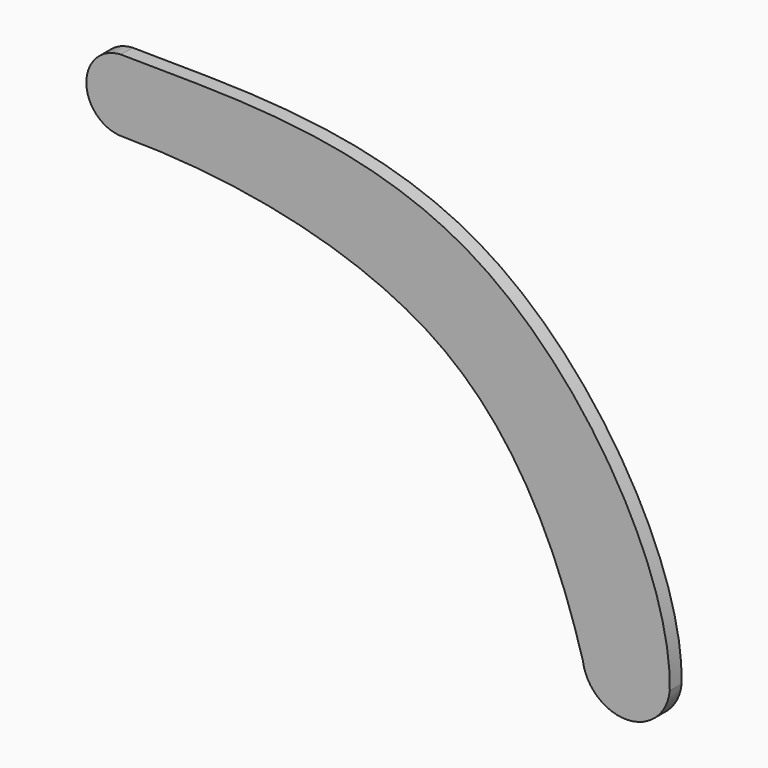
from build123d import *

# Parameters (mm, degrees)
F1_DEPTH = 6


with BuildPart() as f1:
    # F0 (on Front) → F1 (new body)
    with BuildSketch(Plane.XZ):
        with BuildLine():
            add(Edge.make_bspline(
                [(-101.7142631175, 76.7978288036), (-61.3279538518, 75.9858952802), (53.199787643, 82.5095167863), (121.6109842062, -37.6277007163), (120.6045793327, -77.7087154106)],
                knots=[0, 0, 0, 0, 0.4935246648, 1, 1, 1, 1], degree=3))
            ThreePointArc((-101.7142631175, 76.7978288036), (-115.6690591988, 61.7240381864), (-100.6411090493, 47.7198883891))
            add(Edge.make_bspline(
                [(-100.6411090493, 47.7198883891), (-56.7002171544, 47.7198883891), (43.7986936163, 30.936554419), (76.2159358664, -46.474766397), (85.3817984462, -78.3855319023)],
                knots=[0, 0, 0, 0, 0.5307667703, 1, 1, 1, 1], degree=3))
            ThreePointArc((85.3817984462, -78.3855319023), (103.2941684146, -93.7106543133), (120.6045793327, -77.7087154106))
        make_face()
    extrude(amount=F1_DEPTH)


solid = f1.part
